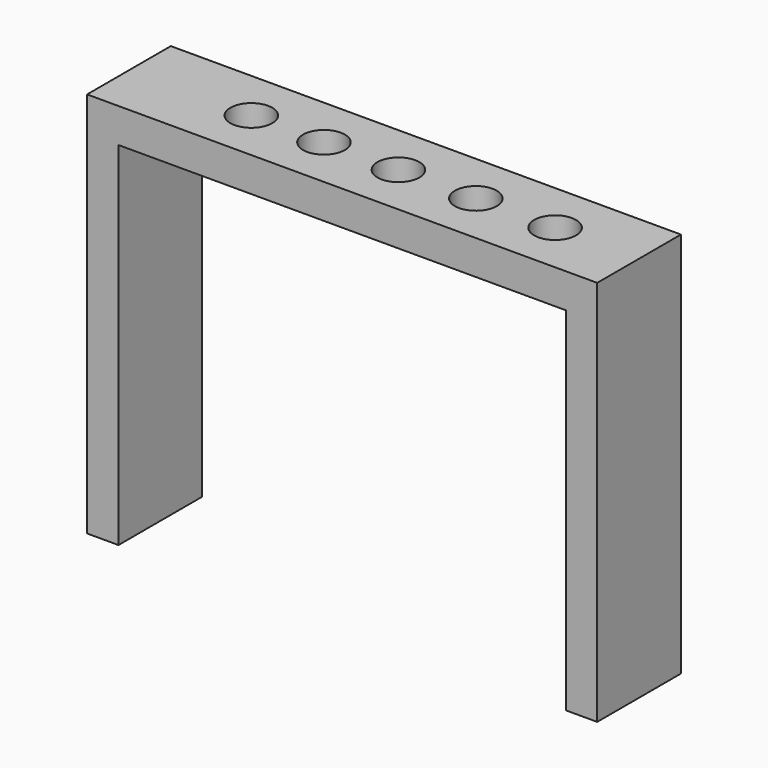
from build123d import *

# Parameters (mm, degrees)
F0_W     = 3.81
F0_H     = 42.7434768285
F1_DEPTH = 12.7
F2_R     = 2.54
F3_DEPTH = 25.4


with BuildPart() as f1:
    # F0 (on Front) → F1 (new body)
    with BuildSketch(Plane.XZ):
        with Locations((-29.6465945647, 21.3717384142)):
            Rectangle(F0_W, F0_H)
        with Locations((28.4559660365, 21.3717384142)):
            Rectangle(F0_W, F0_H)
        Polygon((-31.5515945647, 42.7434768285), (-27.7415945647, 42.7434768285), (26.5509660365, 42.7434768285), (30.3609660365, 42.7434768285), (30.3609660365, 46.9121001661), (-31.5515945647, 46.9121001661), align=None)
    extrude(amount=F1_DEPTH)

    # F2 (on face) → F3 (cut)
    with BuildSketch(Plane.XY.offset(46.9121001661)):
        with Locations((-16.6965778917, -6.35)):
            Circle(F2_R)
        with Locations((-7.8807836398, -6.35)):
            Circle(F2_R)
        with Locations((1.1546649039, -6.35)):
            Circle(F2_R)
        with Locations((10.5522349477, -6.35)):
            Circle(F2_R)
        with Locations((20.1694630086, -6.35)):
            Circle(F2_R)
    extrude(amount=-F3_DEPTH, mode=Mode.SUBTRACT)


solid = f1.part
